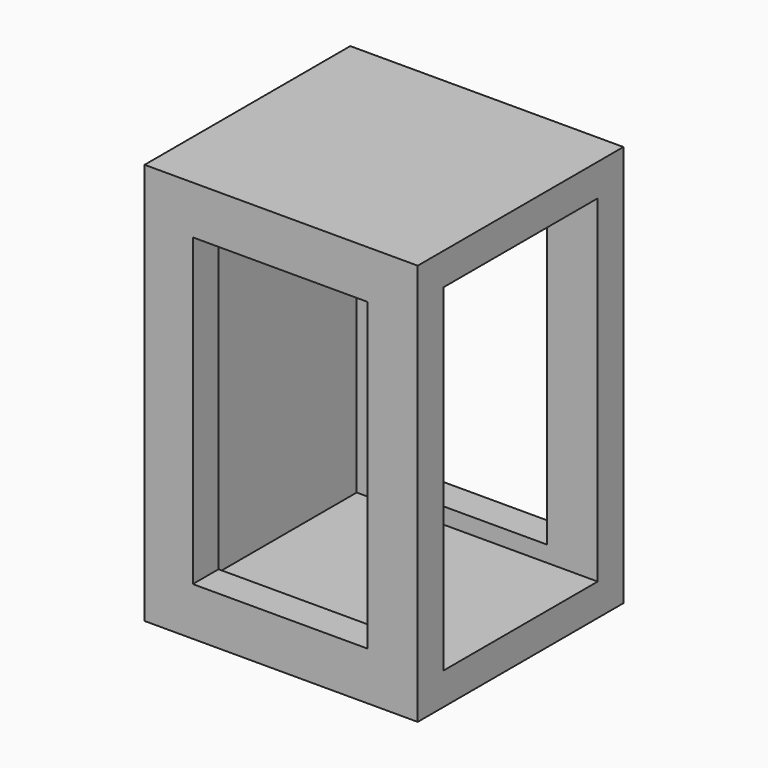
from build123d import *

# Parameters (mm, degrees)
F0_W     = 17
F0_H     = 25
F1_DEPTH = 16
F2_T     = -2
F3_W     = 10.859362
F3_H     = 19
F4_DEPTH = 16.001


with BuildPart() as f1:
    # F0 (on Front) → F1 (new body)
    with BuildSketch(Plane.XZ):
        with Locations((8.5, 12.5)):
            Rectangle(F0_W, F0_H)
    extrude(amount=-F1_DEPTH)

    # F2
    f2_openings = [f1.faces().sort_by_distance(p)[0] for p in [
        (17, 8, 12.5),
    ]]
    offset(amount=F2_T, openings=f2_openings)

    # F3 (on face) → F4 (cut, through all)
    with BuildSketch(Plane(origin=(0, 16, 0), x_dir=(-1, 0, 0), z_dir=(0, 1, 0))):
        with Locations((-8.429681, 12.5)):
            Rectangle(F3_W, F3_H)
    extrude(amount=-F4_DEPTH, mode=Mode.SUBTRACT)


solid = f1.part
